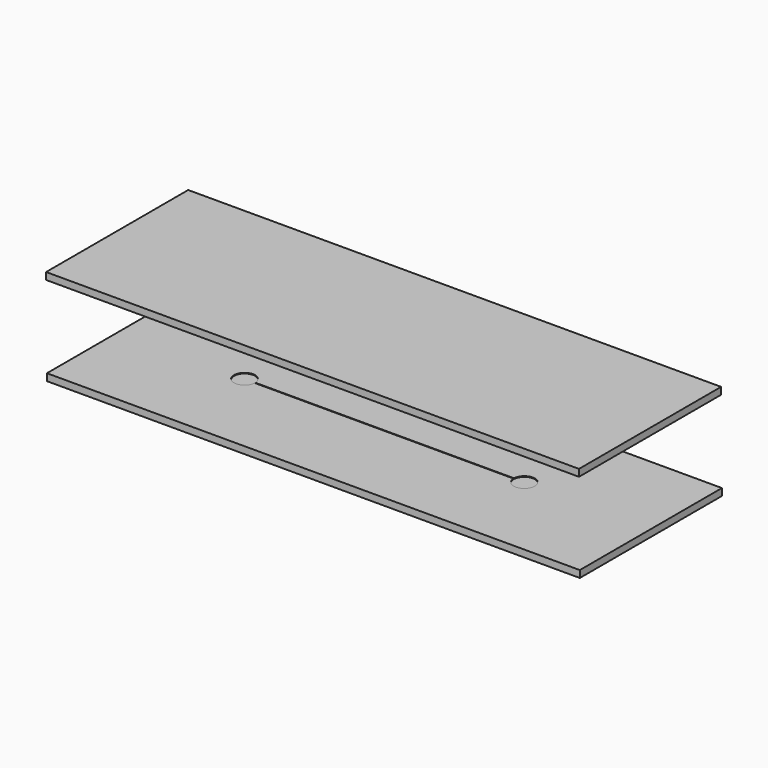
from build123d import *

# Parameters (mm, degrees)
F0_W     = 76.2
F0_H     = 25.4
F1_DEPTH = 1
F3_DEPTH = 0.1
F5_W     = 76.2
F5_H     = 25.4
F6_DEPTH = 1
F7_W     = 40
F7_H     = 0.1
F8_DEPTH = 0.1


with BuildPart() as f1:
    # F0 (on Top) → F1 (new body)
    with BuildSketch(Plane.XY):
        Rectangle(F0_W, F0_H)
    extrude(amount=F1_DEPTH)

    # F2 (on face) → F3 (cut)
    with BuildSketch(Plane.XY.offset(1)):
        with BuildLine():
            ThreePointArc((18.5008335649, -0.05), (18.5, 0), (18.5008335649, 0.05))
            Line((18.5008335649, 0.05), (-18.5008335649, 0.05))
            ThreePointArc((-18.5008335649, 0.05), (-18.5002084057, 0.0250034739), (-18.5, 0))
            ThreePointArc((-18.5, 0), (-18.5002084057, -0.0250034739), (-18.5008335649, -0.05))
            Line((-18.5008335649, -0.05), (18.5008335649, -0.05))
        make_face()
        with BuildLine():
            ThreePointArc((-18.5, 0), (-18.5002084057, 0.0250034739), (-18.5008335649, 0.05))
            Line((-18.5008335649, 0.05), (-20, 0.05))
            Line((-20, 0.05), (-20, -0.05))
            Line((-20, -0.05), (-18.5008335649, -0.05))
            ThreePointArc((-18.5008335649, -0.05), (-18.5002084057, -0.0250034739), (-18.5, 0))
        make_face()
        with BuildLine():
            Line((-20, 0.05), (-18.5008335649, 0.05))
            ThreePointArc((-18.5008335649, 0.05), (-21.5, 0), (-18.5008335649, -0.05))
            Line((-18.5008335649, -0.05), (-20, -0.05))
            Line((-20, -0.05), (-20, 0.05))
        make_face()
        with BuildLine():
            Line((18.5008335649, 0.05), (20, 0.05))
            Line((20, 0.05), (20, -0.05))
            Line((20, -0.05), (18.5008335649, -0.05))
            ThreePointArc((18.5008335649, -0.05), (20.0250034739, -1.4997915943), (21.5, 0))
            ThreePointArc((21.5, 0), (20.0250034739, 1.4997915943), (18.5008335649, 0.05))
        make_face()
        with BuildLine():
            Line((20, -0.05), (20, 0.05))
            Line((20, 0.05), (18.5008335649, 0.05))
            ThreePointArc((18.5008335649, 0.05), (18.5, 0), (18.5008335649, -0.05))
            Line((18.5008335649, -0.05), (20, -0.05))
        make_face()
    extrude(amount=-F3_DEPTH, mode=Mode.SUBTRACT)


with BuildPart() as f6:
    # F5 (on offset) → F6 (new body)
    with BuildSketch(Plane.XY.offset(12.7)):
        with Locations((-0.1183587592, -1.746e-07)):
            Rectangle(F5_W, F5_H)
    extrude(amount=F6_DEPTH)

    # F7 (on face) → F8 (cut)
    with BuildSketch(Plane(origin=(0, 0, 12.7), x_dir=(1, 0, 0), z_dir=(0, 0, -1))):
        Rectangle(F7_W, F7_H)
    extrude(amount=-F8_DEPTH, mode=Mode.SUBTRACT)


solid = Compound([f1.part, f6.part])
